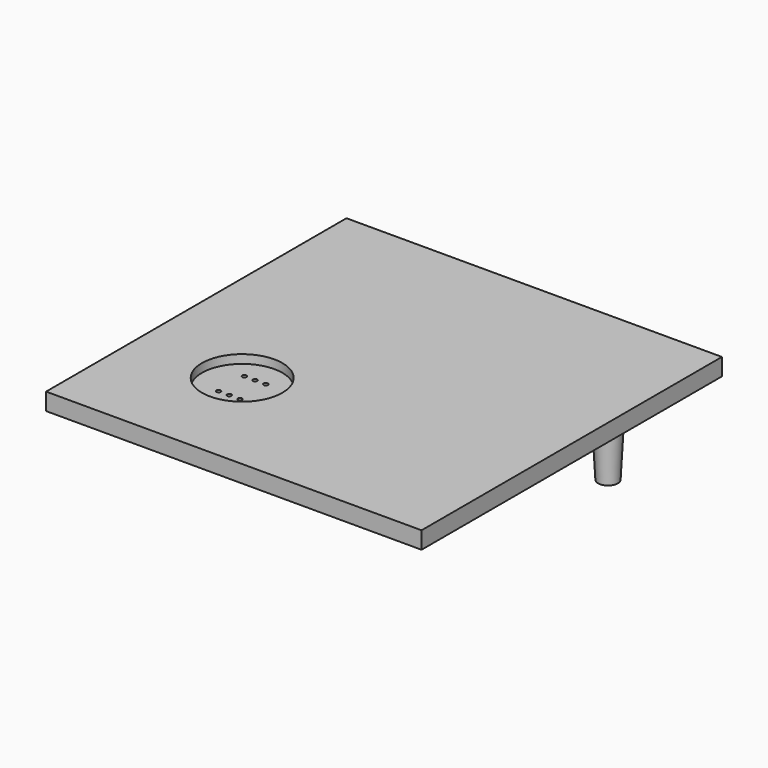
from build123d import *

# Parameters (mm, degrees)
F0_W     = 44.45
F0_H     = 44.45
F1_DEPTH = 2.032
F2_R     = 1.5
F3_DEPTH = 6.35
F3_TAPER = 3
F4_R     = 0.254
F5_DEPTH = 25.4
F7_START = 1.016
F6_R     = 4.7625
F7_DEPTH = 1.016


with BuildPart() as f1:
    # F0 (on Top) → F1 (new body)
    with BuildSketch(Plane.XY):
        Rectangle(F0_W, F0_H)
    extrude(amount=F1_DEPTH)

    # F2 (on Top) → F3 (join)
    with BuildSketch(Plane.XY):
        with Locations((-19.304, 9.017)):
            Circle(F2_R)
        with Locations((19.304, 9.017)):
            Circle(F2_R)
    extrude(amount=-F3_DEPTH, taper=F3_TAPER)

    # F4 (on Top) → F5 (cut)
    with BuildSketch(Plane.XY):
        with Locations((-11.049, -6.858)):
            Circle(F4_R)
        with Locations((-11.049, -10.668)):
            Circle(F4_R)
        with Locations((-9.779, -6.858)):
            Circle(F4_R)
        with Locations((-9.779, -10.668)):
            Circle(F4_R)
        with Locations((-8.509, -6.858)):
            Circle(F4_R)
        with Locations((-8.509, -10.668)):
            Circle(F4_R)
    extrude(amount=F5_DEPTH, mode=Mode.SUBTRACT)

    # F6 (on Top) → F7 (cut)
    with BuildSketch(Plane.XY.offset(F7_START)):
        with Locations((-9.779, -8.763)):
            Circle(F6_R)
    extrude(amount=F7_DEPTH, mode=Mode.SUBTRACT)


solid = f1.part
